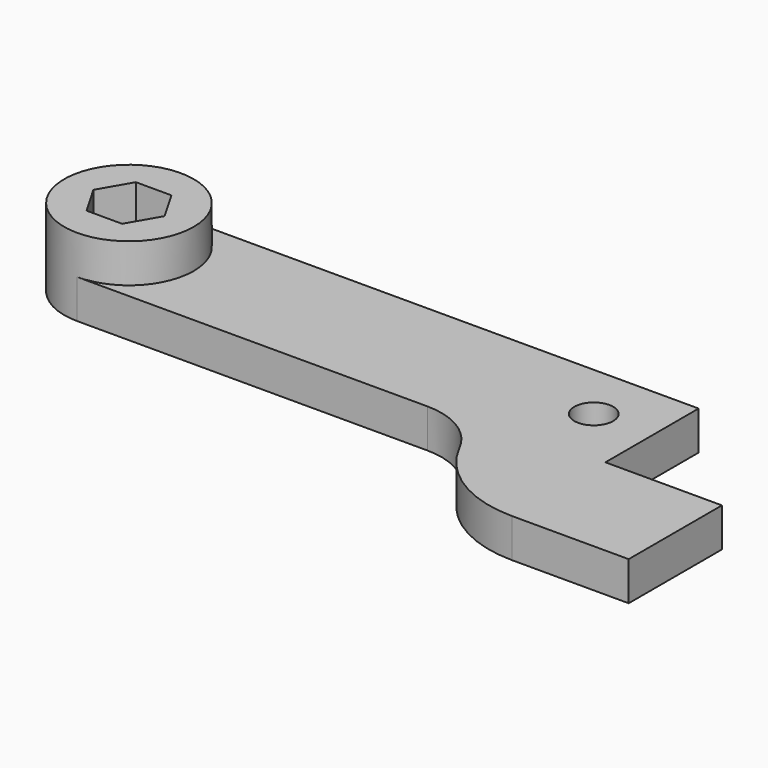
from build123d import *

# Parameters (mm, degrees)
PAD_DEPTH       = 3
SKETCH001_R     = 1.5
POCKET_DEPTH    = 3.001
SKETCH002_R     = 5
PAD001_DEPTH    = 3
POCKET001_DEPTH = 3
SKETCH004_R     = 1.5
POCKET002_DEPTH = 3.001


with BuildPart() as part:
    # Sketch → Pad (new body)
    with BuildSketch(Plane.XY):
        with BuildLine():
            Line((48.521288, 5.237141), (39.521288, 5.237141))
            Line((39.521288, 5.237141), (39.521288, 14.237141))
            Line((39.521288, 14.237141), (-0.478712, 14.237141))
            ThreePointArc((-0.478712, 14.237141), (-5.478728, 9.23715), (-0.478728, 4.237141))
            Line((-0.478728, 4.237141), (26.564369, 4.237141))
            ThreePointArc((31.474962, 1.205189), (29.449965, 3.418084), (26.564369, 4.237141))
            ThreePointArc((31.474962, 1.205189), (34.793052, -2.420782), (39.521288, -3.762859))
            Line((39.521288, -3.762859), (48.521288, -3.762859))
            Line((48.521288, -3.762859), (48.521288, 5.237141))
        make_face()
    extrude(amount=PAD_DEPTH)

    # Sketch001 → Pocket (cut, through all)
    with BuildSketch(Plane.XY.offset(3)):
        with Locations((35.021288, 9.737141)):
            Circle(SKETCH001_R)
    extrude(amount=-POCKET_DEPTH, mode=Mode.SUBTRACT)

    # Sketch002 → Pad001 (new body)
    with BuildSketch(Plane.XY.offset(3)):
        with Locations((-0.478728, 9.237141)):
            Circle(SKETCH002_R)
    extrude(amount=PAD001_DEPTH)

    # Sketch003 → Pocket001 (cut)
    with BuildSketch(Plane.XY.offset(6)):
        Polygon((-1.853728, 11.618711), (0.896272, 11.618711), (2.271272, 9.237141), (0.896272, 6.855571), (-1.853728, 6.855571), (-3.228728, 9.237141), align=None)
    extrude(amount=-POCKET001_DEPTH, mode=Mode.SUBTRACT)

    # Sketch004 → Pocket002 (cut, through all)
    with BuildSketch(Plane.XY.offset(3)):
        with Locations((-0.478728, 9.237141)):
            Circle(SKETCH004_R)
    extrude(amount=-POCKET002_DEPTH, mode=Mode.SUBTRACT)


solid = part.part
